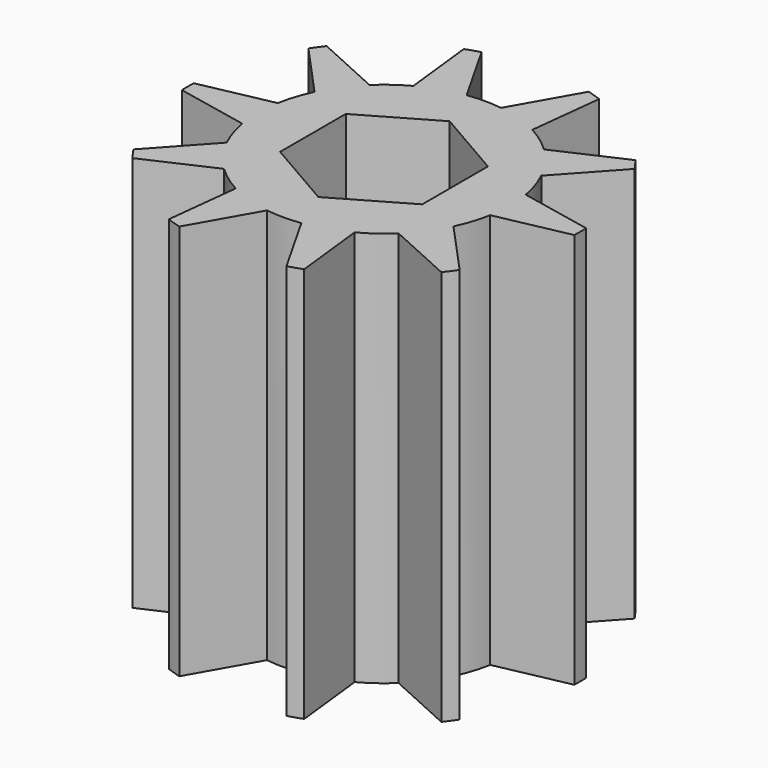
from build123d import *

# Parameters (mm, degrees)
SKETCH002_R        = 25.5
PAD001_DEPTH       = 80.15
PAD006_DEPTH       = 80.15
POLARPATTERN_COUNT = 10
POCKET_DEPTH       = 80.151


with BuildPart() as part:
    # Sketch002 → Pad001 (new body)
    with BuildSketch(Plane.XY):
        Circle(SKETCH002_R)
    extrude(amount=PAD001_DEPTH)

    # Sketch → Pad006 (join)
    with BuildSketch(Plane.XY):
        with BuildLine():
            ThreePointArc((39.721688, -1.5), (39.75, 0), (39.721688, 1.5))
            Line((25.099801, 4.5), (39.721688, 1.5))
            Line((25.099801, 4.5), (17, 0))
            Line((17, 0), (25.099801, -4.5))
            Line((25.099801, -4.5), (39.721688, -1.5))
        make_face()
    pad006 = extrude(amount=PAD006_DEPTH)

    # PolarPattern: Pad006 ×10 about axis
    polarpattern_axis = Axis((0, 0, 0), (0, 0, 1))
    for i in range(1, POLARPATTERN_COUNT):
        add(pad006.rotate(polarpattern_axis, i * 360 / POLARPATTERN_COUNT))

    # Sketch001 → Pocket (cut, through all)
    with BuildSketch(Plane.XY):
        Polygon((14.3875, 8.306627), (0, 16.613254), (-14.3875, 8.306627), (-14.3875, -8.306627), (0, -16.613254), (14.3875, -8.306627), align=None)
    extrude(amount=POCKET_DEPTH, mode=Mode.SUBTRACT)


with BuildPart() as part_1:
    # Body027 placement: moved
    add(part.part.moved(Location((0, -100, 0))))


solid = part_1.part
